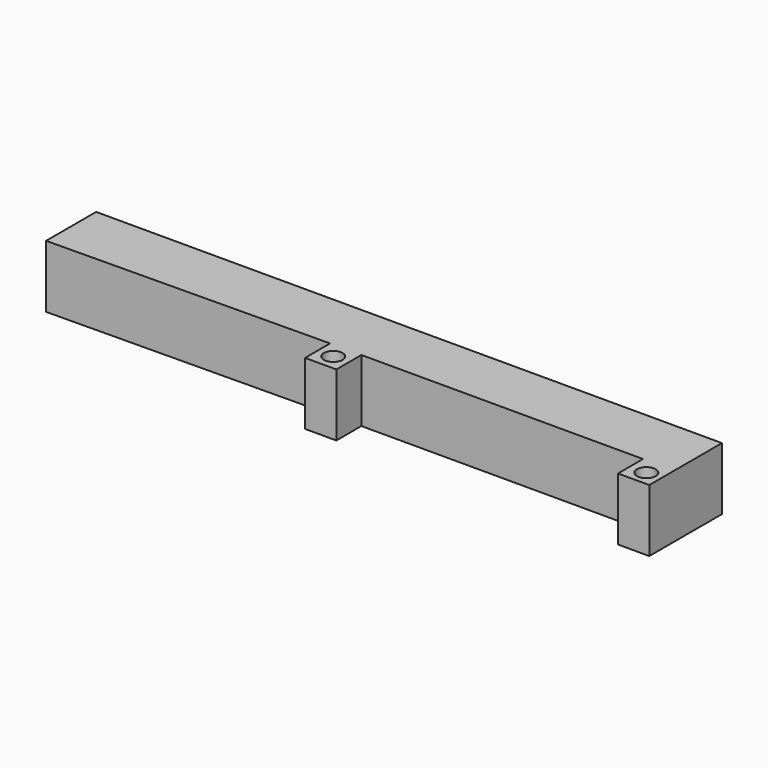
from build123d import *

# Parameters (mm, degrees)
F0_R     = 3.81
F1_DEPTH = 25.4


with BuildPart() as f1:
    # F0 (on Top) → F1 (new body)
    with BuildSketch(Plane.XY):
        Polygon((-116.922736, 72.318586), (-370.922736, 72.318586), (-370.922736, 46.918586), (-256.622736, 48.152742), (-256.622736, 35.452742), (-243.922736, 35.452742), (-243.922736, 48.152742), (-129.622736, 48.152742), (-129.622736, 35.452742), (-116.922736, 35.452742), (-116.922736, 46.918586), align=None)
        with Locations((-250.272736, 41.802742)):
            Circle(F0_R, mode=Mode.SUBTRACT)
        with Locations((-122.94844, 41.478446)):
            Circle(F0_R, mode=Mode.SUBTRACT)
    extrude(amount=F1_DEPTH)


solid = f1.part
